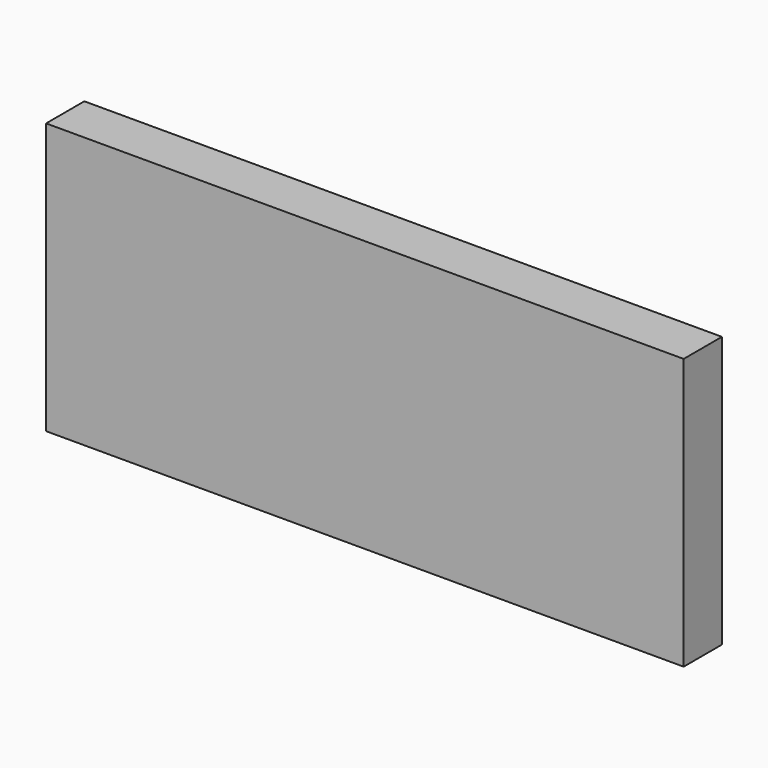
from build123d import *

# Parameters (mm, degrees)
F0_W     = 12
F0_H     = 68
F1_DEPTH = 16
F2_DEPTH = 160


with BuildPart() as f1:
    # F0 (on Right) → F1 (new body)
    with BuildSketch(Plane.YZ):
        with Locations((7.688743, 34)):
            Rectangle(F0_W, F0_H)
    extrude(amount=F1_DEPTH)

    # F0 (on Right) → F2 (join)
    with BuildSketch(Plane.YZ):
        with Locations((7.688743, 34)):
            Rectangle(F0_W, F0_H)
    extrude(amount=F2_DEPTH)


solid = f1.part
